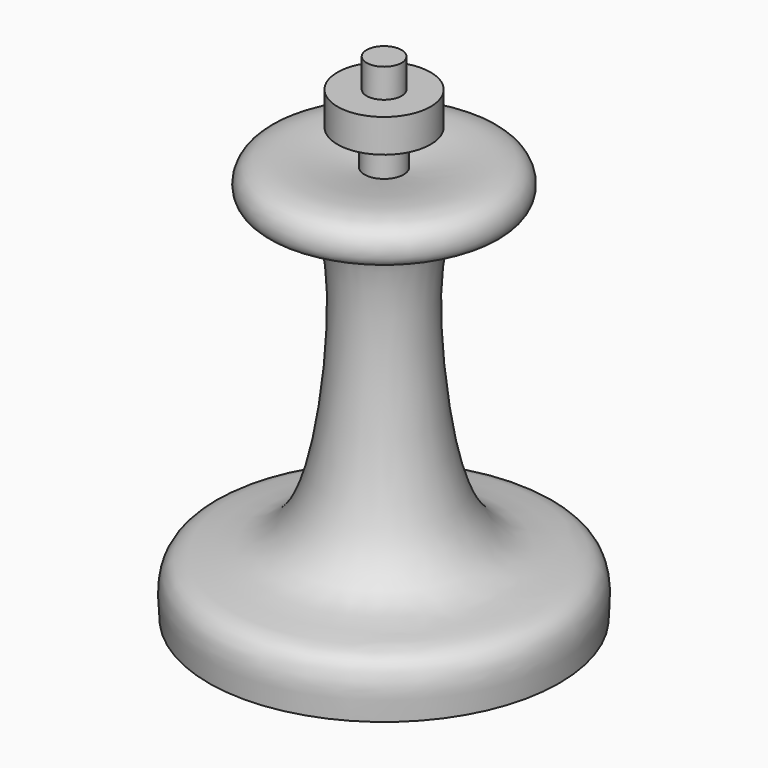
from build123d import *


with BuildPart() as f2:
    # F2: sweep along a path in F0
    with BuildLine(Plane.XY) as f2_path:
        CenterArc((0, 0), 7.7582357731, 0, 360)
    # F1 (on Right) → F2 (sweep)
    with BuildSketch(Plane.YZ):
        with BuildLine():
            Line((0, 0), (7.5490800664, 0))
            add(Edge.make_bspline(
                [(7.5490800664, 0), (7.6145304039, 0.8804186914), (7.7549889021, 2.7698251019), (3.5221259295, 2.1174667665), (1.8585979555, 7.8232747458), (1.6540914984, 16.9886530501), (5.1781027722, 15.3160589702), (5.1927211458, 17.8931313245), (2.5566937746, 17.4030705618), (0.8421861567, 17.0843284577)],
                knots=[0, 0, 0, 0, 0.1152105408, 0.2472454713, 0.4340393226, 0.6496522623, 0.759328545, 0.8434640522, 1, 1, 1, 1], degree=3))
            Line((0.8421861567, 17.0843284577), (0.8421861567, 18.6045579612))
            Line((0.8421861567, 18.6045579612), (2.004714217, 18.6045579612))
            Line((2.004714217, 18.6045579612), (2.004714217, 20.0353618711))
            Line((2.004714217, 20.0353618711), (0.7527609705, 20.0353618711))
            Line((0.7527609705, 20.0353618711), (0.7527609705, 21.2873145938))
            Line((0.7527609705, 21.2873145938), (0, 21.2873145938))
            Line((0, 21.2873145938), (0, 0))
        make_face()
    sweep(path=f2_path.line)


solid = f2.part
